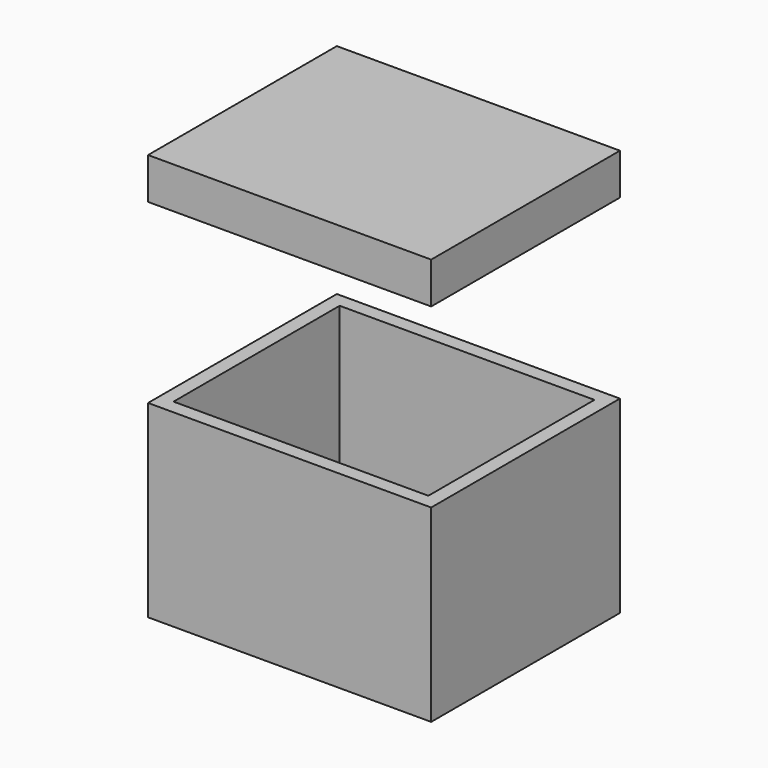
from build123d import *

# Parameters (mm, degrees)
F0_W     = 240
F0_H     = 200
F1_DEPTH = 160
F2_T     = -12
F4_W     = 240
F4_H     = 200
F5_DEPTH = 35
F6_T     = -12


with BuildPart() as f1:
    # F0 (on Top) → F1 (new body)
    with BuildSketch(Plane.XY):
        Rectangle(F0_W, F0_H)
    extrude(amount=-F1_DEPTH)

    # F2
    f2_openings = [f1.faces().sort_by_distance(p)[0] for p in [
        (0, 0, 0),
    ]]
    offset(amount=F2_T, openings=f2_openings)


with BuildPart() as f5:
    # F4 (on offset) → F5 (new body)
    with BuildSketch(Plane.XY.offset(150)):
        Rectangle(F4_W, F4_H)
    extrude(amount=F5_DEPTH)

    # F6
    f6_openings = [f5.faces().sort_by_distance(p)[0] for p in [
        (0, 0, 150),
    ]]
    offset(amount=F6_T, openings=f6_openings)


solid = Compound([f1.part, f5.part])
